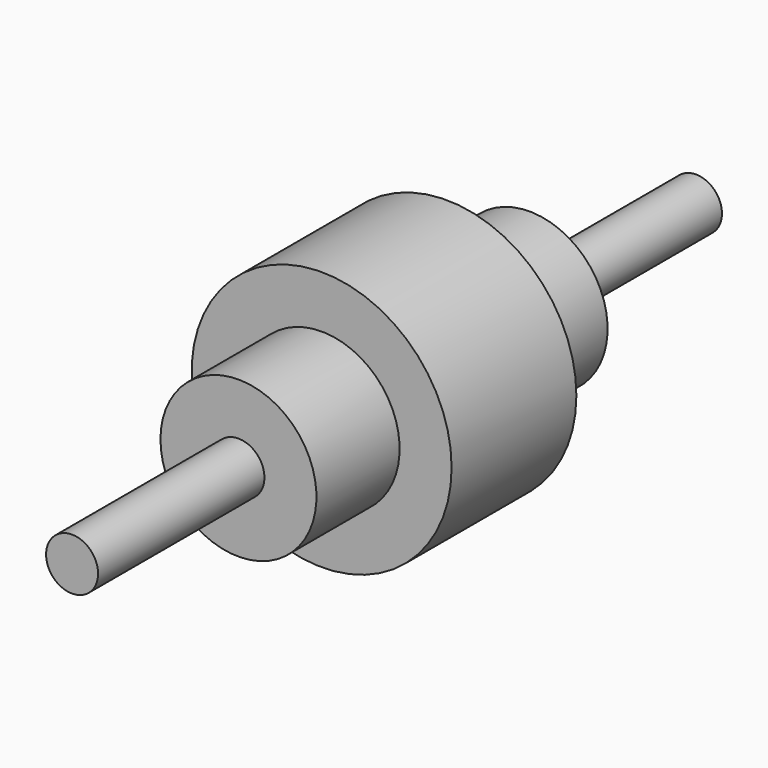
from build123d import *

# Parameters (mm, degrees)
F0_R     = 50
F1_DEPTH = 30
F2_R     = 30
F3_DEPTH = 40
F4_R     = 10
F5_DEPTH = 80


with BuildPart() as f1:
    # F0 (on Front) → F1 (new body, symmetric)
    with BuildSketch(Plane.XZ):
        with Locations((0, 0.138534)):
            Circle(F0_R)
    extrude(amount=F1_DEPTH, both=True)

    # F2 (on face) → F3 (join)
    with BuildSketch(Plane(origin=(0, 30, 0), x_dir=(-1, 0, 0), z_dir=(0, 1, 0))):
        Circle(F2_R)
    extrude(amount=F3_DEPTH)

    # F4 (on face) → F5 (join)
    with BuildSketch(Plane(origin=(0, 70, 0), x_dir=(-1, 0, 0), z_dir=(0, 1, 0))):
        Circle(F4_R)
    extrude(amount=F5_DEPTH)

    # F6: F1 across plane


with BuildPart() as f1_1:
    add(f1.part)
    add(f1.part.mirror(Plane.XZ))


solid = f1_1.part
